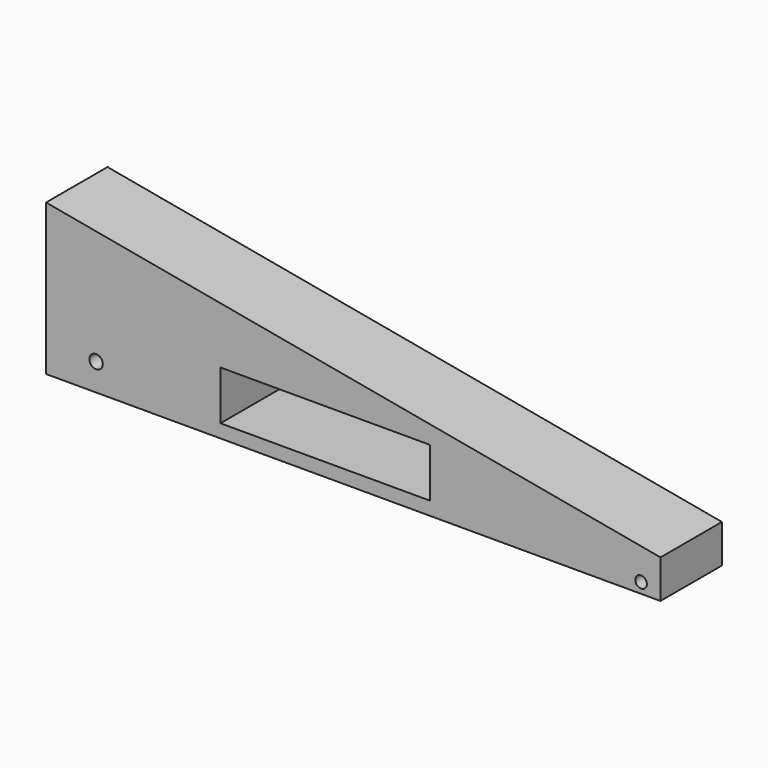
from build123d import *

# Parameters (mm, degrees)
F1_DEPTH = 38.1
F2_R     = 9.561336
F3_DEPTH = 50.8
F4_R     = 3.317837
F5_DEPTH = 42.926
F6_W     = 103.955641
F6_H     = 24.375808
F7_DEPTH = 50.8
F8_R     = 2.876859
F9_DEPTH = 45.212


with BuildPart() as f1:
    # F0 (on Front) → F1 (new body)
    with BuildSketch(Plane.XZ):
        Polygon((0, 74.93), (0, 0), (304.8, 0), (304.8, 19.05), align=None)
    extrude(amount=F1_DEPTH)

    # F2 (on face) → F3 (cut)
    with BuildSketch(Plane(origin=(0, 0, 0), x_dir=(0, -1, 0), z_dir=(-1, 0, 0))):
        with Locations((18.415, 39.243001)):
            Circle(F2_R)
    extrude(amount=-F3_DEPTH, mode=Mode.SUBTRACT)

    # F4 (on face) → F5 (cut)
    with BuildSketch(Plane(origin=(0, 0, 0), x_dir=(-1, 0, 0), z_dir=(0, 1, 0))):
        with Locations((-24.803754, 13.480514)):
            Circle(F4_R)
    extrude(amount=-F5_DEPTH, mode=Mode.SUBTRACT)

    # F6 (on face) → F7 (cut)
    with BuildSketch(Plane.XZ.offset(38.1)):
        with Locations((138.49657, 18.819557)):
            Rectangle(F6_W, F6_H)
    extrude(amount=-F7_DEPTH, mode=Mode.SUBTRACT)

    # F8 (on face) → F9 (cut)
    with BuildSketch(Plane.XZ.offset(38.1)):
        with Locations((295.173943, 5.17409)):
            Circle(F8_R)
    extrude(amount=-F9_DEPTH, mode=Mode.SUBTRACT)


solid = f1.part
